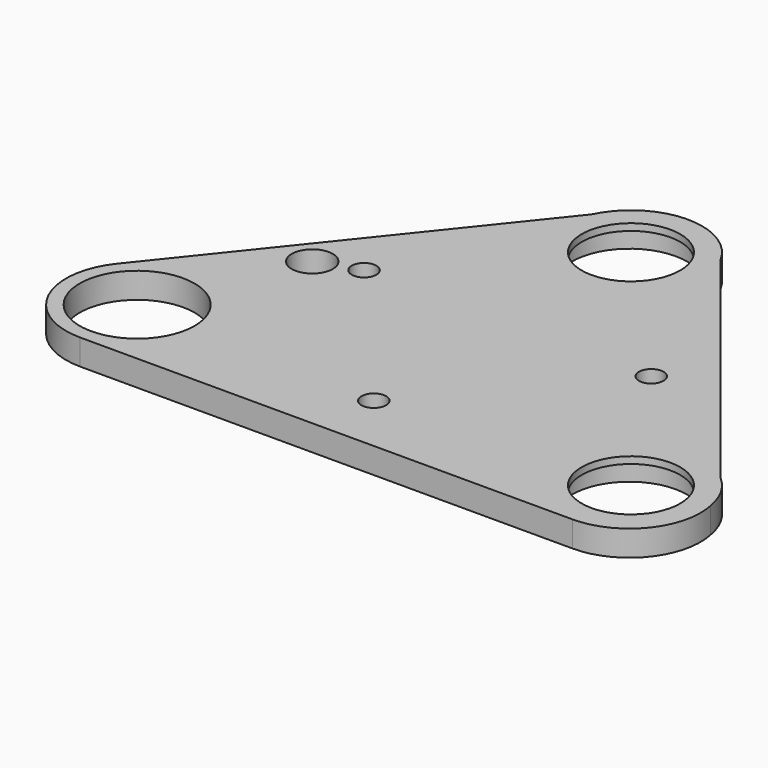
from build123d import *

# Parameters (mm, degrees)
CYLINDER001_R     = 8.4
CYLINDER001_DEPTH = 5.5
CYLINDER004_R     = 7.2
CYLINDER004_DEPTH = 6.5
CYLINDER003_R     = 10.4
CYLINDER003_DEPTH = 1
CYLINDER002_R     = 10.4
CYLINDER002_DEPTH = 2.75
SKETCH_R          = 8.4
SKETCH_R_2        = 1.8
SKETCH_R_3        = 3
PAD012_DEPTH      = 3.75


with BuildPart() as bearing_holder_extract:
    # Cylinder001 → Cylinder001 (new body)
    with BuildSketch(Plane.XY):
        Circle(CYLINDER001_R)
    extrude(amount=CYLINDER001_DEPTH)


with BuildPart() as bearing_holder_extract_fusion:
    # Cylinder004 → Cylinder004 (new body)
    with BuildSketch(Plane.XY.offset(-1)):
        Circle(CYLINDER004_R)
    extrude(amount=CYLINDER004_DEPTH)

    # Fusion001: union bearing holder extract
    add(bearing_holder_extract.part)


with BuildPart() as bearing_holder_disk:
    # Cylinder003 → Cylinder003 (new body)
    with BuildSketch(Plane.XY.offset(-1)):
        Circle(CYLINDER003_R)
    extrude(amount=CYLINDER003_DEPTH)


with BuildPart() as bearing_holder_body:
    # Cylinder002 → Cylinder002 (new body)
    with BuildSketch(Plane.XY):
        Circle(CYLINDER002_R)
    extrude(amount=CYLINDER002_DEPTH)

    # Fusion002: union bearing holder disk
    add(bearing_holder_disk.part)

    # Cut003: cut bearing holder extract fusion
    add(bearing_holder_extract_fusion.part, mode=Mode.SUBTRACT)


with BuildPart() as bearing_holder_body_1:
    # Cut003 placement: moved
    add(bearing_holder_body.part.moved(Location((0, 0, 1))))


with BuildPart() as bearing_holder_body_clone003:
    # Body012 base: copy of bearing holder body
    add(bearing_holder_body_1.part)


with BuildPart() as bearing_holder_body_clone003_1:
    # Body012 placement: moved
    add(bearing_holder_body_clone003.part.moved(Location((0, 25, 0))))


with BuildPart() as base_bearing_body:
    # Sketch → Pad012 (new body)
    with BuildSketch(Plane.XY):
        with BuildLine():
            Line((-44.05596, -13.84625), (-8.05596, 31.15375))
            ThreePointArc((8.186111, 31.15375), (0.065075, 35.056922), (-8.05596, 31.15375))
            Line((8.186111, 31.15375), (44.186111, -13.84625))
            ThreePointArc((36.065075, -30.743078), (45.438629, -24.848241), (44.186111, -13.84625))
            Line((36.065075, -30.743078), (-35.934925, -30.743078))
            ThreePointArc((-44.05596, -13.84625), (-45.308478, -24.848241), (-35.934925, -30.743078))
        make_face()
        with Locations((-35.934925, -20.343078)):
            Circle(SKETCH_R, mode=Mode.SUBTRACT)
        with Locations((0.065075, 24.656922)):
            Circle(SKETCH_R, mode=Mode.SUBTRACT)
        with Locations((36.065075, -20.343078)):
            Circle(SKETCH_R, mode=Mode.SUBTRACT)
        with Locations((-21.031229, 2.5)):
            Circle(SKETCH_R_2, mode=Mode.SUBTRACT)
        with Locations((20.961264, 2.5)):
            Circle(SKETCH_R_2, mode=Mode.SUBTRACT)
        with Locations((0, -22)):
            Circle(SKETCH_R_2, mode=Mode.SUBTRACT)
        with Locations((-27, 0.5)):
            Circle(SKETCH_R_3, mode=Mode.SUBTRACT)
    extrude(amount=PAD012_DEPTH)


with BuildPart() as base_bearing_fusion:
    # Body013 base: copy of bearing holder body
    add(bearing_holder_body_1.part)


with BuildPart() as base_bearing_fusion_1:
    # Body013 placement: moved
    add(base_bearing_fusion.part.moved(Location((36, -20, 0))))

    # Fusion004: union bearing holder body clone003, base bearing body
    add(bearing_holder_body_clone003_1.part)
    add(base_bearing_body.part)


with BuildPart() as part_mirroring:
    # Part__Mirroring: instance of base bearing fusion
    add(base_bearing_fusion_1.part.mirror(Plane(origin=(0, 0, 0), x_dir=(0, 1, 0), z_dir=(0, 0, 1))))


with BuildPart() as part_mirroring_1:
    # Part__Mirroring placement: moved
    add(part_mirroring.part.moved(Location((0, 0, 8))))


solid = part_mirroring_1.part
